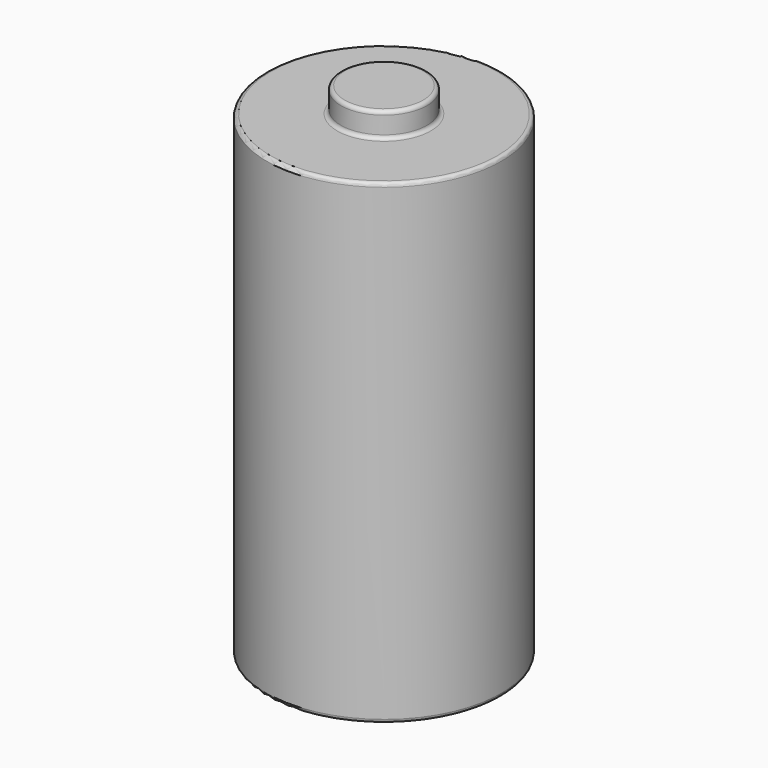
from build123d import *

# Parameters (mm, degrees)
F0_W = 5.745578
F0_H = 3.308199
F2_R = 0.5


with BuildPart() as f1:
    # F0 (on Front) → F1 (revolve)
    with BuildSketch(Plane.XZ):
        Polygon((-15.662696, 0), (0, 0), (0, 63.530859), (-5.745578, 63.530859), (-15.662696, 63.530859), align=None)
        with Locations((-2.872789, 65.184958)):
            Rectangle(F0_W, F0_H)
    revolve(axis=Axis((0, 0, 31.765429), (0, 0, 1)))

    # F2
    f2_edges = [f1.edges().sort_by_distance(p)[0] for p in [
        (5.745578, 0, 66.839058),
        (5.745578, 0, 63.530859),
        (15.662696, 0, 63.530859),
        (15.662696, 0, 0),
    ]]
    fillet(f2_edges, radius=F2_R)


solid = f1.part
